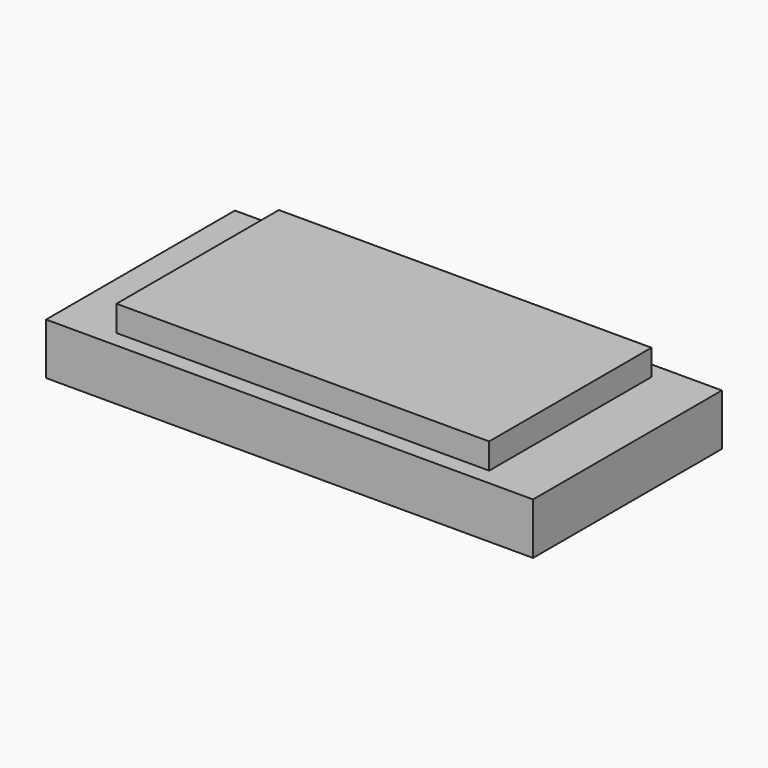
from build123d import *

# Parameters (mm, degrees)
F0_W     = 183.68493
F0_H     = 100.012504
F1_DEPTH = 25.4
F0_W_2   = 240.02999
F0_H_2   = 116.352566
F2_DEPTH = 12.7


with BuildPart() as f1:
    # F0 (on Top) → F1 (new body)
    with BuildSketch(Plane.XY):
        Rectangle(F0_W, F0_H)
    extrude(amount=F1_DEPTH)

    # F0 (on Top) → F2 (join, symmetric)
    with BuildSketch(Plane.XY):
        Rectangle(F0_W_2, F0_H_2)
        Rectangle(F0_W, F0_H, mode=Mode.SUBTRACT)
    extrude(amount=F2_DEPTH, both=True)


solid = f1.part
